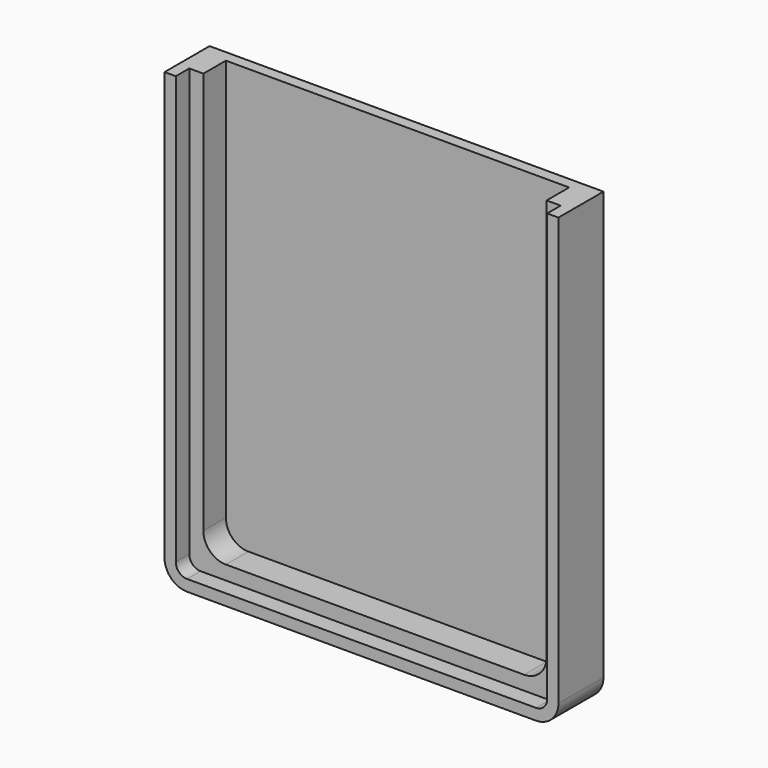
from build123d import *

# Parameters (mm, degrees)
F0_W     = 88.9
F0_H     = 101.6
F1_DEPTH = 6.35
F2_R     = 5.08
F3_T     = -2.54
F4_W     = 83.82
F4_H     = 2.54
F5_DEPTH = 10.16
F7_DEPTH = 6.35
F8_R     = 5.08


with BuildPart() as f1:
    # F0 (on Front) → F1 (new body, symmetric)
    with BuildSketch(Plane.XZ):
        with Locations((0, 50.8)):
            Rectangle(F0_W, F0_H)
    extrude(amount=F1_DEPTH, both=True)

    # F2
    f2_edges = [f1.edges().sort_by_distance(p)[0] for p in [
        (-44.45, 0, 0),
        (44.45, 0, 0),
    ]]
    fillet(f2_edges, radius=F2_R)

    # F3
    f3_openings = [f1.faces().sort_by_distance(p)[0] for p in [
        (0, -6.35, 50.860979),
    ]]
    offset(amount=F3_T, openings=f3_openings)

    # F4 (on face) → F5 (cut, through all)
    with BuildSketch(Plane.XZ.offset(6.35)):
        with Locations((0, 100.33)):
            Rectangle(F4_W, F4_H)
    extrude(amount=-F5_DEPTH, mode=Mode.SUBTRACT)

    # F6 (on face) → F7 (join)
    with BuildSketch(Plane.XZ.offset(-3.81)):
        with BuildLine():
            Line((38.735, 5.715), (-38.735, 5.715))
            Line((-38.735, 5.715), (-38.735, 101.6))
            Line((-38.735, 101.6), (-41.91, 101.6))
            Line((-41.91, 101.6), (-41.91, 5.08))
            ThreePointArc((-41.91, 5.08), (-41.1660512242, 3.2839487758), (-39.37, 2.54))
            Line((-39.37, 2.54), (39.37, 2.54))
            ThreePointArc((39.37, 2.54), (41.1660512242, 3.2839487758), (41.91, 5.08))
            Line((41.91, 5.08), (41.91, 101.6))
            Line((41.91, 101.6), (38.735, 101.6))
            Line((38.735, 101.6), (38.735, 5.715))
        make_face()
    extrude(amount=F7_DEPTH)

    # F8
    f8_edges = [f1.edges().sort_by_distance(p)[0] for p in [
        (-38.735, 0.635, 5.715),
        (38.735, 0.635, 5.715),
    ]]
    fillet(f8_edges, radius=F8_R)


solid = f1.part
